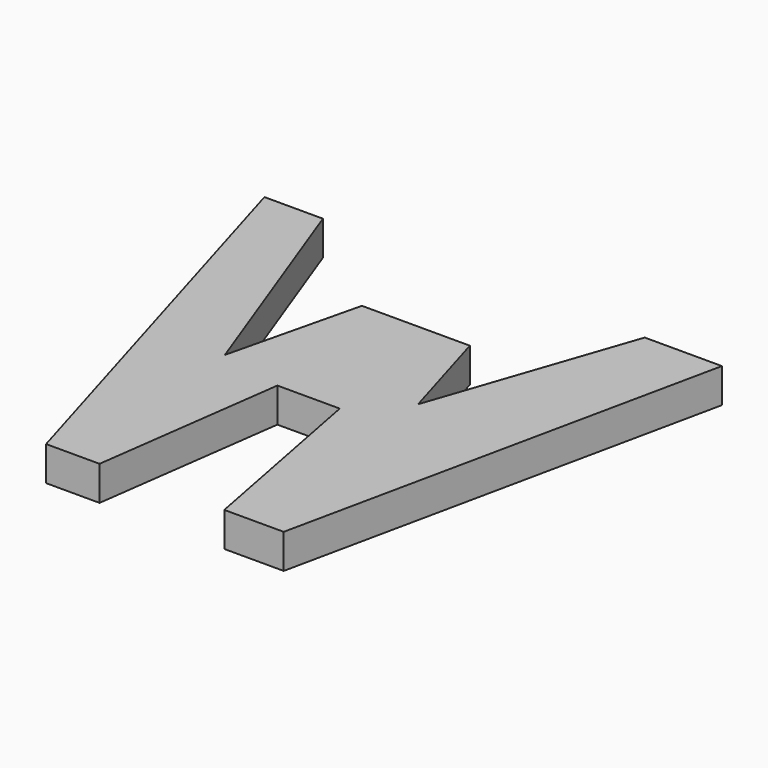
from build123d import *

# Parameters (mm, degrees)
F0_W     = 84.4042
F0_H     = 79.8273328692
F1_DEPTH = 6.35
F3_DEPTH = 25.4


with BuildPart() as f1:
    # F0 (on Top) → F1 (new body)
    with BuildSketch(Plane.XY):
        with Locations((1.090981224, 11.9649684057)):
            Rectangle(F0_W, F0_H)
    extrude(amount=F1_DEPTH)

    # F2 (on face) → F3 (cut)
    with BuildSketch(Plane.XY.offset(6.35)):
        Polygon((-17.5364390016, -27.9486980289), (-41.111118776, 51.8786348402), (-41.111118776, -27.9486980289), align=None)
        Polygon((29.0447268635, 51.8786348403), (-30.3234253079, 51.8786348403), (-14.7963697091, 9.864247404), (-8.9508909732, 34.1595225036), (10.960274376, 34.1595225036), (16.5489539437, 15.2354315543), align=None)
        Polygon((43.293081224, -27.9486980289), (43.293081224, 51.8786348403), (26.3046585023, -27.9486980289), align=None)
        Polygon((-2.9227398336, 7.1241795085), (-7.6721920632, -27.9486980289), (15.3443841264, -27.9486980289), (8.5855480283, 7.1241795085), align=None)
    extrude(amount=-F3_DEPTH, mode=Mode.SUBTRACT)


solid = f1.part
